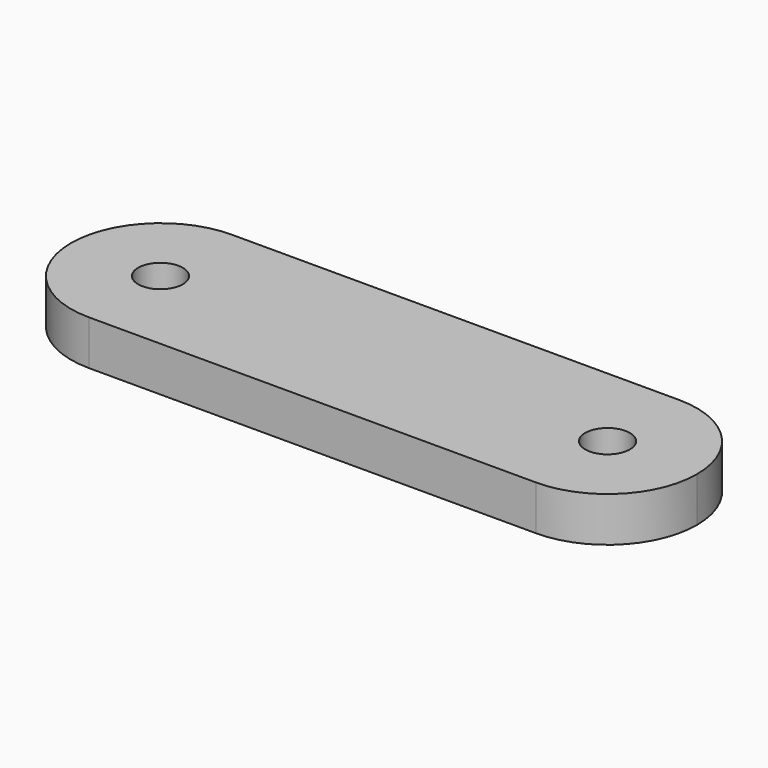
from build123d import *

# Parameters (mm, degrees)
F2_DEPTH = 12.7
F3_D     = 12.7
F3_DEPTH = 25.4
F4_D     = 12.7
F4_DEPTH = 127


with BuildPart() as f2:
    # F0 (on Top) → F2 (new body)
    with BuildSketch(Plane.XY):
        with BuildLine():
            ThreePointArc((25.4, 0), (17.960512, -17.960512), (0, -25.4))
            Line((0, -25.4), (127, -25.4))
            ThreePointArc((127, -25.4), (101.6, 0), (127, 25.4))
            Line((127, 25.4), (0, 25.4))
            ThreePointArc((0, 25.4), (17.960512, 17.960512), (25.4, 0))
        make_face()
        with BuildLine():
            ThreePointArc((0, 25.4), (-25.4, 0), (0, -25.4))
            ThreePointArc((0, -25.4), (17.960512, -17.960512), (25.4, 0))
            ThreePointArc((25.4, 0), (17.960512, 17.960512), (0, 25.4))
        make_face()
        with BuildLine():
            ThreePointArc((127, 25.4), (101.6, 0), (127, -25.4))
            ThreePointArc((127, -25.4), (144.960512, -17.960512), (152.4, 0))
            ThreePointArc((152.4, 0), (144.960512, 17.960512), (127, 25.4))
        make_face()
    extrude(amount=F2_DEPTH)

    # F3
    with Locations(Plane(origin=(0, 0, 0), x_dir=(1, 0, 0), z_dir=(0, 0, -1))):
        with Locations((0, 0)):
            Hole(F3_D / 2, depth=F3_DEPTH)

    # F4
    with Locations(Plane(origin=(0, 0, 0), x_dir=(1, 0, 0), z_dir=(0, 0, -1))):
        with Locations((127, 0)):
            Hole(F4_D / 2, depth=F4_DEPTH)


solid = f2.part
